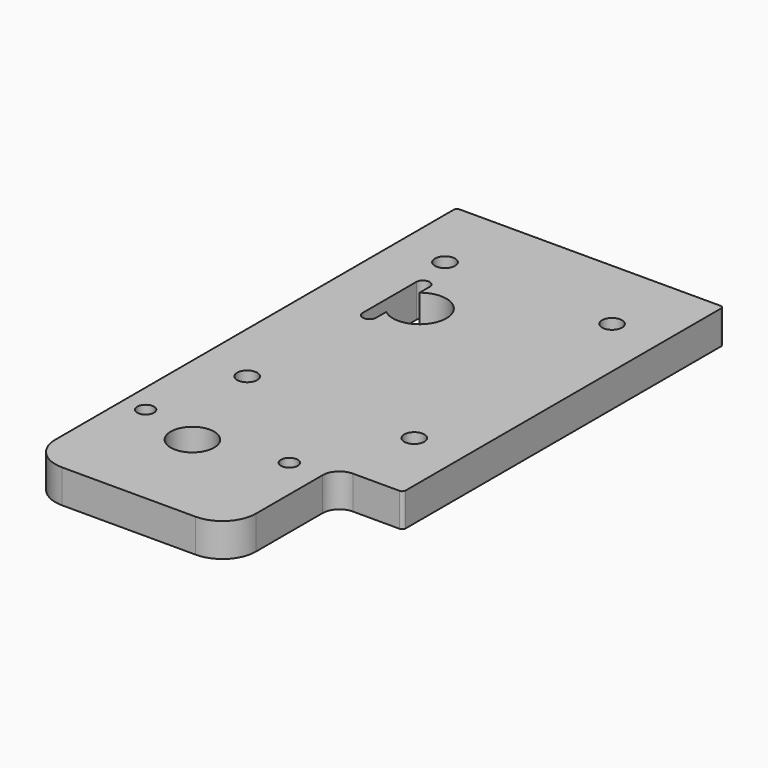
from build123d import *

# Parameters (mm, degrees)
SKETCH_R    = 6.5
SKETCH_R_2  = 3
SKETCH_R_3  = 2.5
PAD_DEPTH   = 10
FILLET_R    = 1
FILLET001_R = 5
FILLET002_R = 10


with BuildPart() as part:
    # Sketch → Pad (new body)
    with BuildSketch(Plane.XY):
        Polygon((-25, 45), (55, 45), (55, -75), (35, -75), (35, -115), (-25, -115), align=None)
        with Locations((0, -85)):
            Circle(SKETCH_R, mode=Mode.SUBTRACT)
        with Locations((-10, -52)):
            Circle(SKETCH_R_2, mode=Mode.SUBTRACT)
        with Locations((40, -52)):
            Circle(SKETCH_R_2, mode=Mode.SUBTRACT)
        with Locations((40, 22)):
            Circle(SKETCH_R_2, mode=Mode.SUBTRACT)
        with Locations((-10, 22)):
            Circle(SKETCH_R_2, mode=Mode.SUBTRACT)
        with Locations((25, -80)):
            Circle(SKETCH_R_3, mode=Mode.SUBTRACT)
        with Locations((-18, -80)):
            Circle(SKETCH_R_3, mode=Mode.SUBTRACT)
        with BuildLine():
            ThreePointArc((-5, -6.244998), (8, 0), (-5, 6.244998))
            Line((-5, 6.244998), (-5, 10))
            ThreePointArc((-5, 10), (-7, 12), (-9, 10))
            Line((-9, 10), (-9, -10))
            ThreePointArc((-9, -10), (-7, -12), (-5, -10))
            Line((-5, -10), (-5, -6.244998))
        make_face(mode=Mode.SUBTRACT)
    extrude(amount=PAD_DEPTH)

    # Fillet
    fillet_edges = [part.edges().sort_by_distance(p)[0] for p in [
        (55, -75, 5),
        (55, 45, 5),
        (-25, 45, 5),
    ]]
    fillet(fillet_edges, radius=FILLET_R)

    # Fillet001
    fillet001_edges = [part.edges().sort_by_distance(p)[0] for p in [
        (35, -75, 5),
    ]]
    fillet(fillet001_edges, radius=FILLET001_R)

    # Fillet002
    fillet002_edges = [part.edges().sort_by_distance(p)[0] for p in [
        (35, -115, 5),
        (-25, -115, 5),
    ]]
    fillet(fillet002_edges, radius=FILLET002_R)


solid = part.part
